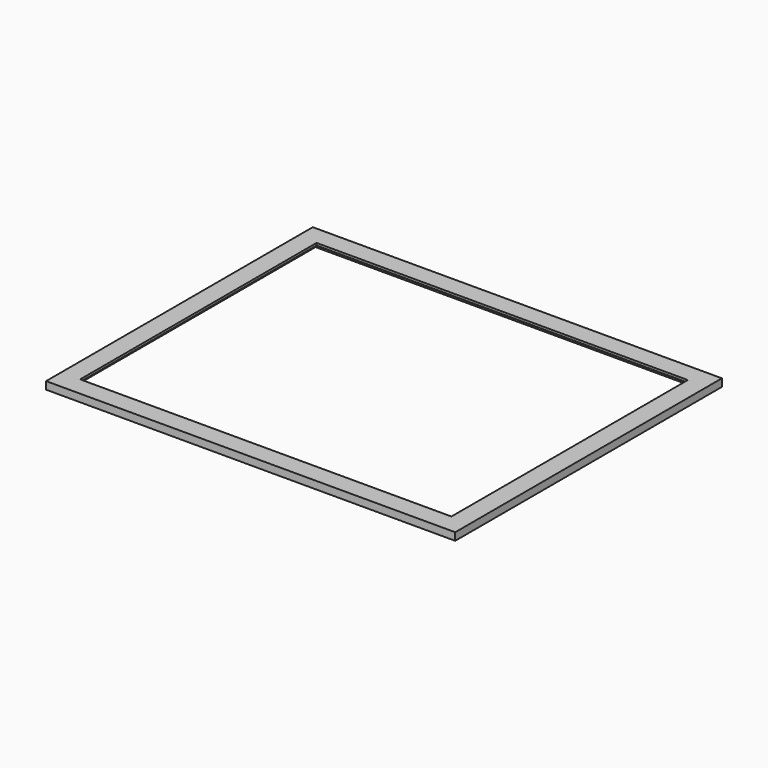
from build123d import *

# Parameters (mm, degrees)
F0_W     = 540
F0_H     = 440
F0_W_2   = 504
F0_H_2   = 404
F0_W_3   = 490
F0_H_3   = 390
F1_DEPTH = 3
F2_DEPTH = 10


with BuildPart() as f1:
    # F0 (on Top) → F1 (new body)
    with BuildSketch(Plane.XY):
        Rectangle(F0_W, F0_H)
        Rectangle(F0_W_2, F0_H_2, mode=Mode.SUBTRACT)
        Rectangle(F0_W_2, F0_H_2)
        Rectangle(F0_W_3, F0_H_3, mode=Mode.SUBTRACT)
    extrude(amount=-F1_DEPTH)

    # F0 (on Top) → F2 (join)
    with BuildSketch(Plane.XY):
        Rectangle(F0_W, F0_H)
        Rectangle(F0_W_2, F0_H_2, mode=Mode.SUBTRACT)
    extrude(amount=-F2_DEPTH)


solid = f1.part
